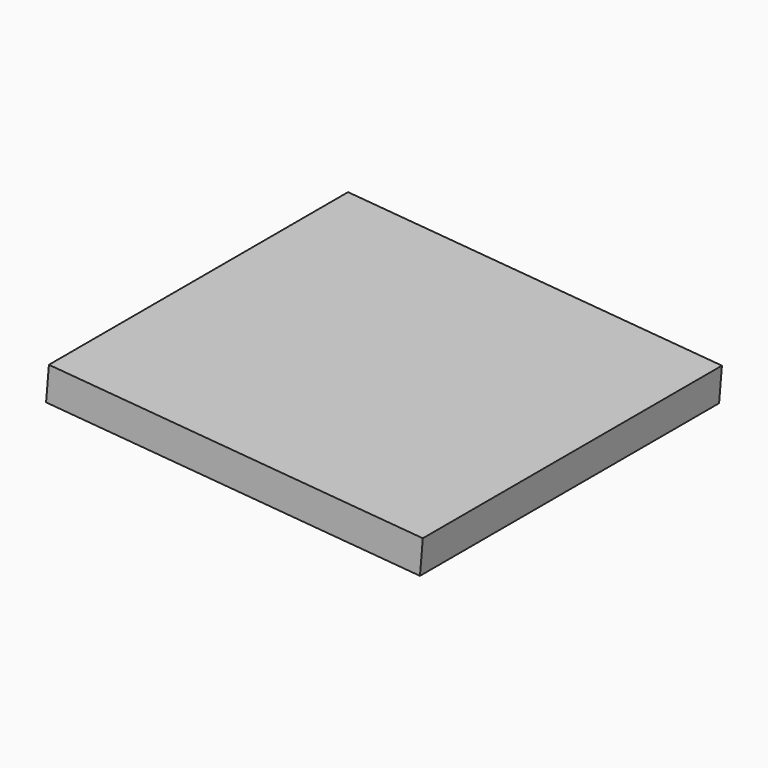
from build123d import *

# Parameters (mm, degrees)
F0_W     = 1828.8
F0_H     = 1828.8
F1_DEPTH = 152.4
F3_DEPTH = 1828.801
F4_DEPTH = 1828.8


with BuildPart() as f1:
    # F0 (on Top) → F1 (new body)
    with BuildSketch(Plane.XY):
        Rectangle(F0_W, F0_H)
    extrude(amount=F1_DEPTH)

    # F2 (on face) → F3 (cut, through all)
    with BuildSketch(Plane.XZ.offset(914.4)):
        Polygon((914.4, 152.4), (-914.4, 152.4), (914.4, 0), align=None)
    extrude(amount=-F3_DEPTH, mode=Mode.SUBTRACT)

    # F2 (on face) → F4 (join, through all)
    with BuildSketch(Plane.XZ.offset(914.4)):
        Polygon((914.4, 0), (-914.4, 152.4), (-928.276584, -14.119007), (900.523416, -166.519007), align=None)
    extrude(amount=-F4_DEPTH)


solid = f1.part
